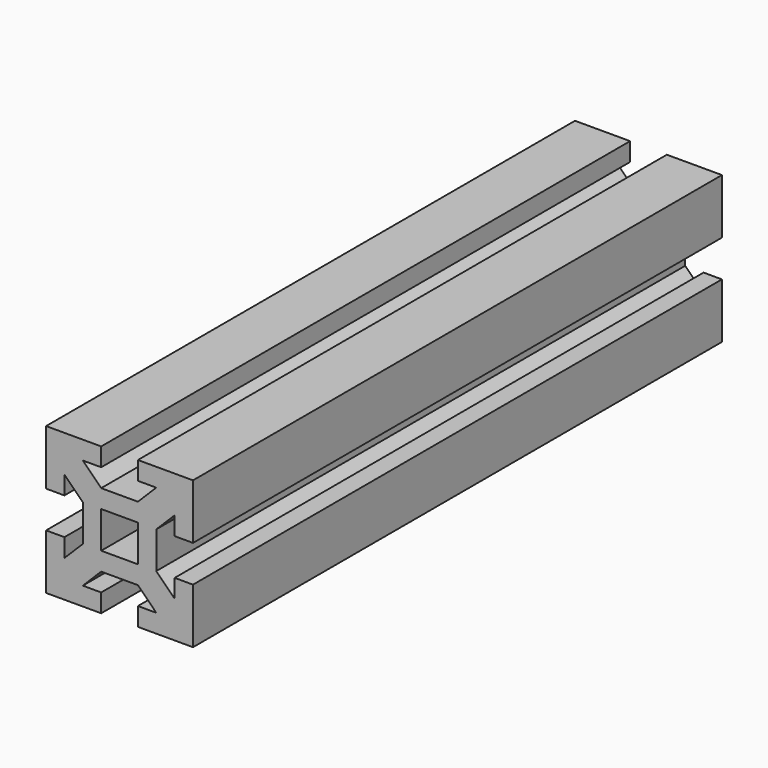
from build123d import *

# Parameters (mm, degrees)
F1_DEPTH = 180


with BuildPart() as f1:
    # F0 (on Front) → F1 (new body)
    with BuildSketch(Plane.XZ):
        Polygon((20, 5), (20, 20), (5, 20), (5, 15), (10, 15), (5, 10), (-5, 10), (-10, 15), (-5, 15), (-5, 20), (-20, 20), (-20, 5), (-15, 5), (-15, 10), (-10, 5), (-10, -5), (-15, -10), (-15, -5), (-20, -5), (-20, -20), (-5, -20), (-5, -15), (-10, -15), (-5, -10), (5, -10), (10, -15), (5, -15), (5, -20), (20, -20), (20, -5), (15, -5), (15, -10), (10, -5), (10, 5), (15, 10), (15, 5), align=None)
        Polygon((-5, 0), (-5, 5), (0, 5), (5, 5), (5, 0), (5, -5), (0, -5), (-5, -5), align=None, mode=Mode.SUBTRACT)
    extrude(amount=F1_DEPTH)


solid = f1.part
